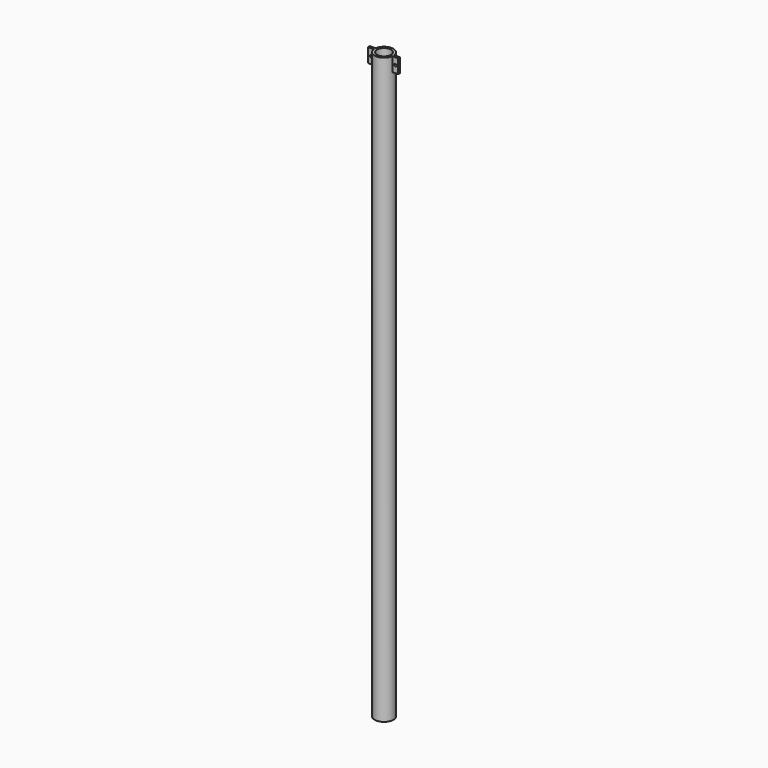
from build123d import *

# Parameters (mm, degrees)
F0_W     = 20
F0_H     = 5000
F3_DEPTH = 120
F4_R     = 10
F5_DEPTH = 25


with BuildPart() as f1:
    # F0 (on Front) → F1 (revolve)
    with BuildSketch(Plane.XZ):
        with Locations((70, 2500)):
            Rectangle(F0_W, F0_H)
    revolve(axis=Axis((0, 0, 2500), (0, 0, 1)))

    # F2 (on face) → F3 (join)
    with BuildSketch(Plane.XY.offset(5000)):
        with BuildLine():
            ThreePointArc((-79.372539, -10), (-80, 0), (-79.372539, 10))
            Line((-79.372539, 10), (-129.372539, 10))
            Line((-129.372539, 10), (-129.372539, -10))
            Line((-129.372539, -10), (-79.372539, -10))
        make_face()
        with BuildLine():
            Line((129.372539, 10), (79.372539, 10))
            ThreePointArc((79.372539, 10), (79.842981, 5.009833), (80, 0))
            ThreePointArc((80, 0), (79.842981, -5.009833), (79.372539, -10))
            Line((79.372539, -10), (129.372539, -10))
            Line((129.372539, -10), (129.372539, 10))
        make_face()
    extrude(amount=-F3_DEPTH)

    # F4 (on face) → F5 (cut)
    with BuildSketch(Plane.XZ.offset(10)):
        with Locations((-104.372539, 4940)):
            Circle(F4_R)
        with Locations((104.341069, 4939.929428)):
            Circle(F4_R)
    extrude(amount=-F5_DEPTH, mode=Mode.SUBTRACT)


solid = f1.part
